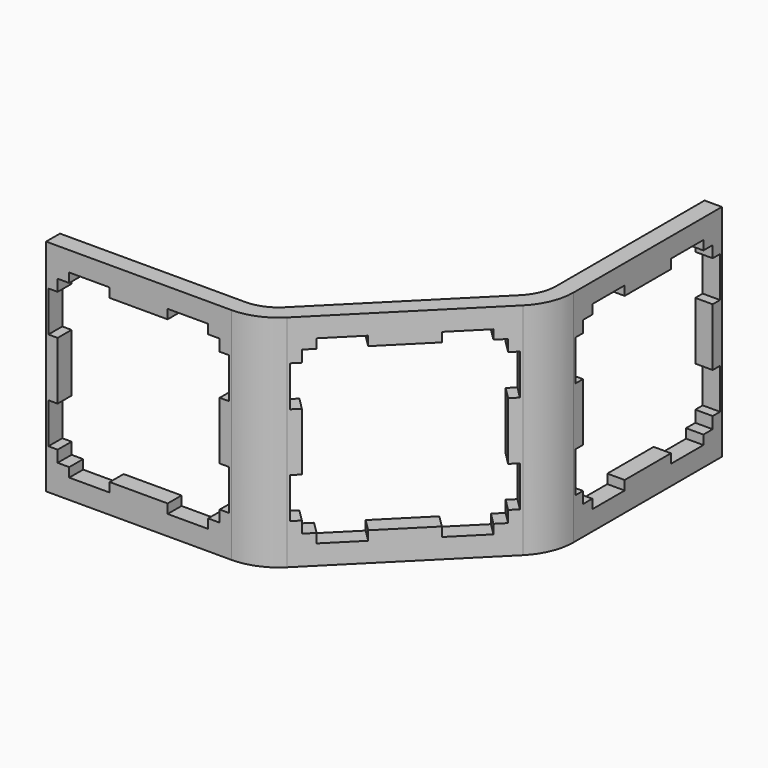
from build123d import *

# Parameters (mm, degrees)
PAD_DEPTH       = 19
POCKET_DEPTH    = 11.62232
POCKET002_DEPTH = 1.501
POCKET003_DEPTH = 1.501


with BuildPart() as part:
    # Sketch → Pad (new body)
    with BuildSketch(Plane.XY):
        with BuildLine():
            Line((0, 0), (16, 0))
            ThreePointArc((16, 0), (17.959845, 0.389838), (19.62132, 1.500001))
            Line((19.62132, 1.500001), (30.935023, 12.813715))
            ThreePointArc((30.935023, 12.813715), (32.045185, 14.475191), (32.435022, 16.435035))
            Line((32.435022, 32.435035), (32.435022, 16.435035))
            Line((30.935022, 32.435035), (32.435022, 32.435035))
            Line((30.935022, 16.435035), (30.935022, 32.435035))
            ThreePointArc((29.874363, 13.874375), (30.659366, 15.049216), (30.935022, 16.435035))
            Line((29.874363, 13.874375), (18.56066, 2.560661))
            ThreePointArc((16, 1.5), (17.385819, 1.775657), (18.56066, 2.560661))
            Line((16, 1.5), (0, 1.5))
            Line((0, 1.5), (0, 0))
        make_face()
    extrude(amount=PAD_DEPTH)

    # Sketch004 → Pocket (cut, through all)
    with BuildSketch(Plane(origin=(8.000009, -8.000001, 0), x_dir=(-0.707106, -0.707107, 0), z_dir=(-0.707107, 0.707106, 0))):
        Polygon((-28.935023, 17.3), (-25.435023, 17.3), (-25.435023, 16.5), (-20.435023, 16.5), (-20.435023, 17.3), (-16.935023, 17.3), (-16.935023, 16.5), (-15.935023, 16.5), (-15.935023, 15.5), (-15.135024, 15.5), (-15.135024, 12), (-15.935023, 12), (-15.935023, 7), (-15.135024, 7), (-15.135024, 3.5), (-15.935023, 3.5), (-15.935023, 2.5), (-16.935023, 2.5), (-16.935023, 1.7), (-20.435023, 1.7), (-20.435023, 2.5), (-25.435023, 2.5), (-25.435023, 1.7), (-28.935023, 1.7), (-28.935023, 2.5), (-29.935023, 2.5), (-29.935023, 3.5), (-30.735024, 3.5), (-30.735024, 7), (-29.935023, 7), (-29.935023, 12), (-30.735024, 12), (-30.735024, 15.5), (-29.935023, 15.5), (-29.935023, 16.5), (-28.935023, 16.5), align=None)
    extrude(amount=-POCKET_DEPTH, mode=Mode.SUBTRACT)

    # Sketch004001 → Pocket002 (cut, through all)
    with BuildSketch(Plane(origin=(30.935022, 0, 0), x_dir=(0, -1, 0), z_dir=(-1, 0, 0))):
        Polygon((-30.435035, 17.3), (-26.935035, 17.3), (-26.935035, 16.5), (-21.935035, 16.5), (-21.935035, 17.3), (-18.435035, 17.3), (-18.435035, 16.5), (-17.435035, 16.5), (-17.435035, 15.5), (-16.635036, 15.5), (-16.635036, 12), (-17.435035, 12), (-17.435035, 7), (-16.635036, 7), (-16.635036, 3.5), (-17.435035, 3.5), (-17.435035, 2.5), (-18.435035, 2.5), (-18.435035, 1.7), (-21.935035, 1.7), (-21.935035, 2.5), (-26.935035, 2.5), (-26.935035, 1.7), (-30.435035, 1.7), (-30.435035, 2.5), (-31.435035, 2.5), (-31.435035, 3.5), (-32.235036, 3.5), (-32.235036, 7), (-31.435035, 7), (-31.435035, 12), (-32.235036, 12), (-32.235036, 15.5), (-31.435035, 15.5), (-31.435035, 16.5), (-30.435035, 16.5), align=None)
    extrude(amount=-POCKET002_DEPTH, mode=Mode.SUBTRACT)

    # Sketch004001001 → Pocket003 (cut, through all)
    with BuildSketch(Plane(origin=(0, 1.5, 0), x_dir=(-1, 0, 0), z_dir=(0, 1, 0))):
        Polygon((-14, 17.3), (-10.5, 17.3), (-10.5, 16.5), (-5.5, 16.5), (-5.5, 17.3), (-2, 17.3), (-2, 16.5), (-1, 16.5), (-1, 15.5), (-0.200001, 15.5), (-0.200001, 12), (-1, 12), (-1, 7), (-0.200001, 7), (-0.200001, 3.5), (-1, 3.5), (-1, 2.5), (-2, 2.5), (-2, 1.7), (-5.5, 1.7), (-5.5, 2.5), (-10.5, 2.5), (-10.5, 1.7), (-14, 1.7), (-14, 2.5), (-15, 2.5), (-15, 3.5), (-15.800001, 3.5), (-15.800001, 7), (-15, 7), (-15, 12), (-15.800001, 12), (-15.800001, 15.5), (-15, 15.5), (-15, 16.5), (-14, 16.5), align=None)
    extrude(amount=-POCKET003_DEPTH, mode=Mode.SUBTRACT)


with BuildPart() as part_1:
    # Clone placement: moved
    add(part.part.moved(Location((0, 2.38, 19))))


with BuildPart() as part_2:
    # Clone001 placement: moved
    add(part_1.part.moved(Location((0, 4.75, 19))))


with BuildPart() as part_3:
    # Clone002 placement: moved
    add(part_2.part.moved(Location((0, -2.38, 19))))


solid = part_3.part
